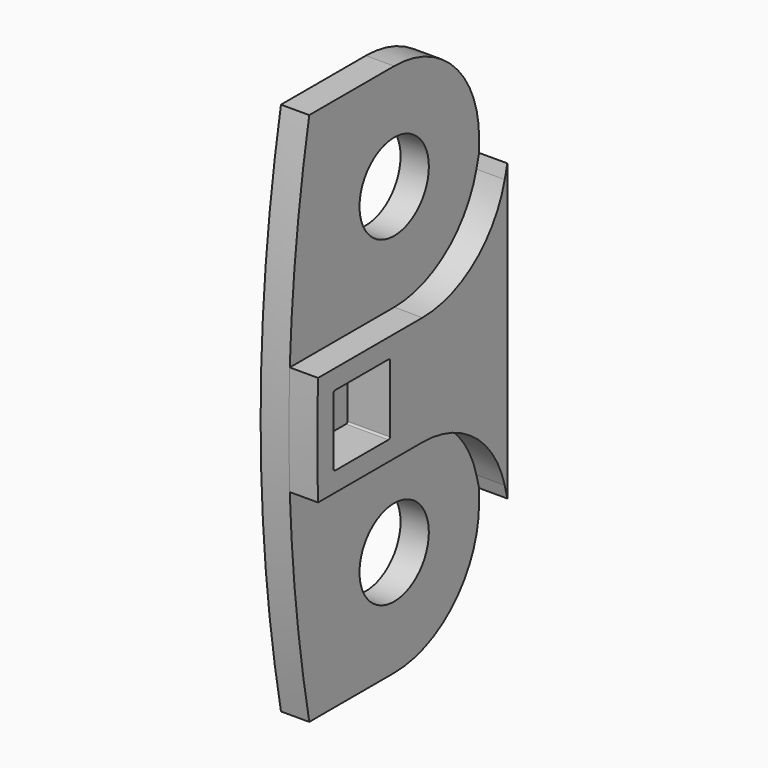
from build123d import *

# Parameters (mm, degrees)
SKETCH004_R  = 2.45
PAD003_DEPTH = 1.6
PAD004_DEPTH = 1.6
POCKET_DEPTH = 2.401


with BuildPart() as part:
    # Sketch004 → Pad003 (new body)
    with BuildSketch(Plane.YZ.offset(-8.7)):
        with BuildLine():
            ThreePointArc((6, 18.2), (4.2426406871, 22.4426406871), (0, 24.2))
            Line((0, 24.2), (-6, 24.2))
            ThreePointArc((-6, 24.2), (-7.4371881489, 9.1), (-6, -6))
            Line((0, -6), (-6, -6))
            ThreePointArc((0, -6), (4.2426406871, -4.2426406871), (6, 0))
            Line((6, 0), (6, 18.2))
        make_face()
        with Locations((0, 18.2)):
            Circle(SKETCH004_R, mode=Mode.SUBTRACT)
        Circle(SKETCH004_R, mode=Mode.SUBTRACT)
    extrude(amount=-PAD003_DEPTH)

    # Sketch005 → Pad004 (join)
    with BuildSketch(Plane.YZ.offset(-8.7)):
        with BuildLine():
            ThreePointArc((0, 12.2), (3.6774423219, 13.4590699257), (5.8114989668, 16.707860677))
            Line((5.8114989668, 16.707860677), (6, 17.4420237293))
            Line((6, 17.4420237293), (6, 0.7579762707))
            Line((6, 0.7579762707), (5.8114989668, 1.492139323))
            ThreePointArc((5.8114989668, 1.492139323), (3.6774423219, 4.7409300743), (0, 6))
            Line((-7.3771358599, 6), (0, 6))
            ThreePointArc((-7.3771358599, 12.2), (-7.4371881489, 9.1), (-7.3771358599, 6))
            Line((-7.3771358599, 12.2), (0, 12.2))
        make_face()
    extrude(amount=PAD004_DEPTH)

    # Sketch065 (on Face1 of Binder015) → Pocket (cut, through all)
    with BuildSketch(Plane(origin=(-9.5, 0, 0), x_dir=(0, -1, 0), z_dir=(-1, 0, 0))):
        with BuildLine():
            Line((6.1771358599, 11.1), (2.4, 11.1))
            ThreePointArc((2.3, 11), (2.3292893219, 11.0707106781), (2.4, 11.1))
            Line((2.3, 11), (2.3, 7.2))
            ThreePointArc((2.4, 7.1), (2.3292893219, 7.1292893219), (2.3, 7.2))
            Line((2.4, 7.1), (6.1771358599, 7.1))
            ThreePointArc((6.2771358599, 7.2), (6.247846538, 7.1292893219), (6.1771358599, 7.1))
            Line((6.2771358599, 7.2), (6.2771358599, 11))
            ThreePointArc((6.1771358599, 11.1), (6.247846538, 11.0707106781), (6.2771358599, 11))
        make_face()
    extrude(amount=-POCKET_DEPTH, mode=Mode.SUBTRACT)


with BuildPart() as part_1:
    # Body005 placement: moved
    add(part.part.moved(Location((0, -72.6064407756, 0))))


solid = part_1.part
